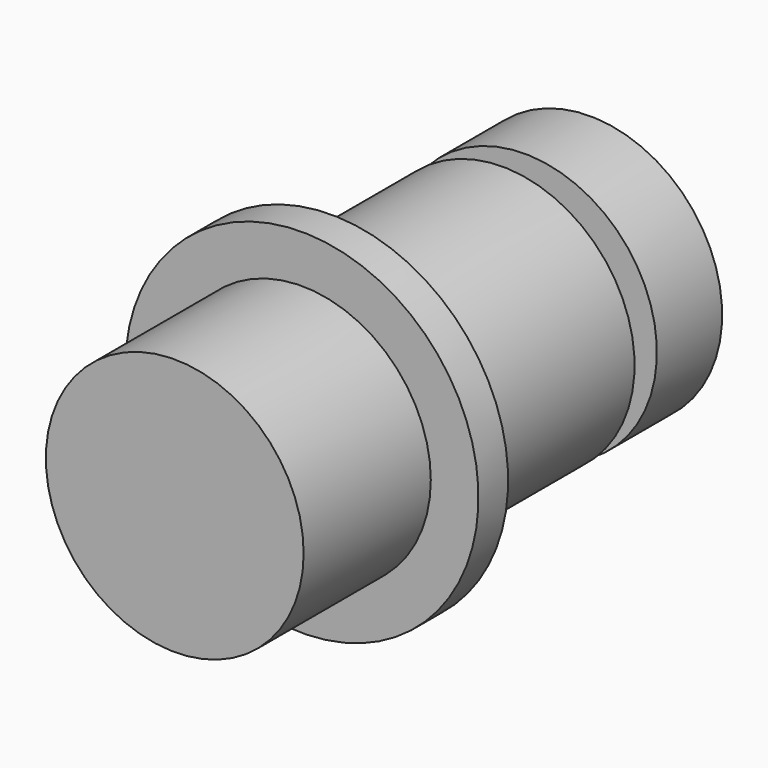
from build123d import *

# Parameters (mm, degrees)
F0_R      = 3.65
F1_DEPTH  = 4.5
F2_R      = 5
F2_R_2    = 3.65
F3_DEPTH  = 1.05
F4_R      = 3.65
F5_DEPTH  = 1.05
F6_R      = 3.74
F6_R_2    = 3.65
F7_DEPTH  = 6.05
F8_DEPTH  = 6.05
F9_R      = 2.5125
F10_DEPTH = 0.79
F11_R     = 3.74
F11_R_2   = 2.5125
F12_DEPTH = 2.31
F13_R     = 2.5125
F14_DEPTH = 2.31
F15_R     = 0.3


with BuildPart() as f1:
    # F0 (on Front) → F1 (new body)
    with BuildSketch(Plane.XZ):
        Circle(F0_R)
    extrude(amount=-F1_DEPTH)


with BuildPart() as f3:
    # F2 (on face) → F3 (new body)
    with BuildSketch(Plane(origin=(0, 4.5, 0), x_dir=(-1, 0, 0), z_dir=(0, 1, 0))):
        Circle(F2_R)
        Circle(F2_R_2, mode=Mode.SUBTRACT)
    extrude(amount=F3_DEPTH)

    # F6 (on face) → F7 (join)
    with BuildSketch(Plane(origin=(0, 5.55, 0), x_dir=(-1, 0, 0), z_dir=(0, 1, 0))):
        Circle(F6_R)
        Circle(F6_R_2, mode=Mode.SUBTRACT)
    extrude(amount=F7_DEPTH)

    # F15
    f15_edges = [f3.edges().sort_by_distance(p)[0] for p in [
        (3.74, 5.55, 0),
    ]]
    fillet(f15_edges, radius=F15_R)


with BuildPart() as f5:
    # F4 (on face) → F5 (new body)
    with BuildSketch(Plane(origin=(0, 4.5, 0), x_dir=(-1, 0, 0), z_dir=(0, 1, 0))):
        Circle(F4_R)
    extrude(amount=F5_DEPTH)


with BuildPart() as f8:
    # F8 (new): a face of the model
    f8_faces = [f5.part.faces().sort_by_distance(p)[0] for p in [
        (0, 5.55, 0),
    ]]
    extrude(f8_faces, amount=F8_DEPTH)

    # F9 (on face) → F10 (join)
    with BuildSketch(Plane(origin=(0, 11.6, 0), x_dir=(-1, 0, 0), z_dir=(0, 1, 0))):
        Circle(F9_R)
    extrude(amount=F10_DEPTH)


with BuildPart() as f12:
    # F11 (on face) → F12 (new body)
    with BuildSketch(Plane(origin=(0, 12.39, 0), x_dir=(-1, 0, 0), z_dir=(0, 1, 0))):
        Circle(F11_R)
        Circle(F11_R_2, mode=Mode.SUBTRACT)
    extrude(amount=F12_DEPTH)


with BuildPart() as f14:
    # F13 (on face) → F14 (new body)
    with BuildSketch(Plane(origin=(0, 12.39, 0), x_dir=(-1, 0, 0), z_dir=(0, 1, 0))):
        Circle(F13_R)
    extrude(amount=F14_DEPTH)


solid = Compound([f1.part, f3.part, f5.part, f8.part, f12.part, f14.part])
